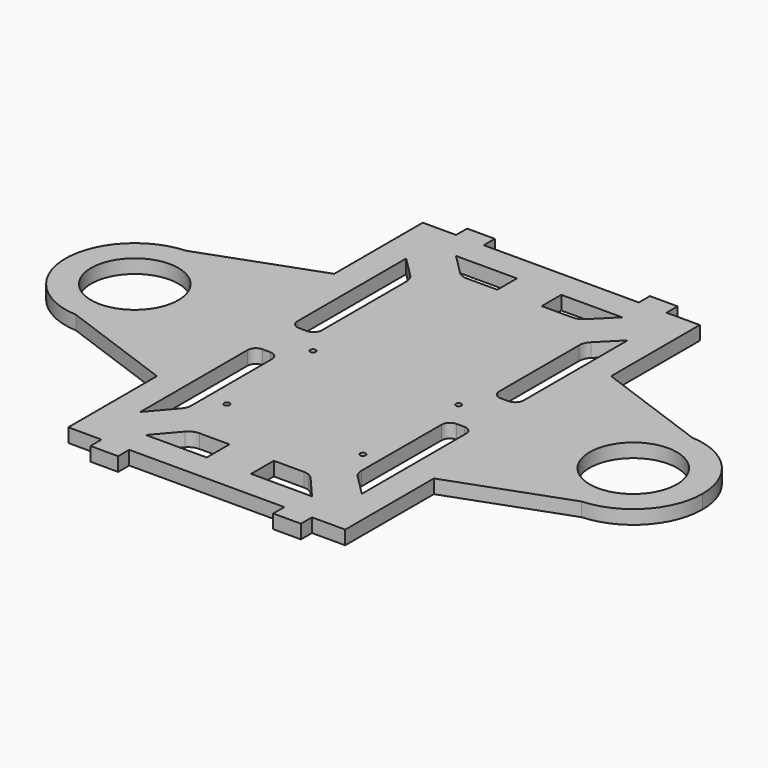
from build123d import *

# Parameters (mm, degrees)
F0_W     = 12.7
F0_H     = 6.35
F0_R     = 20
F1_DEPTH = 6.35
F3_DEPTH = 25.4
F4_R     = 1.27
F5_DEPTH = 25.4


with BuildPart() as f1:
    # F0 (on Top) → F1 (new body)
    with BuildSketch(Plane.XY):
        Polygon((-48.26, 101.6), (-63.5, 101.6), (-63.5, 50.8), (-63.5, -50.8), (-63.5, -101.6), (-48.26, -101.6), (-35.56, -101.6), (35.56, -101.6), (48.26, -101.6), (63.5, -101.6), (63.5, -50.8), (63.5, 50.8), (63.5, 101.6), (48.26, 101.6), (35.56, 101.6), (-35.56, 101.6), align=None)
        with Locations((-41.91, 104.775)):
            Rectangle(F0_W, F0_H)
        with BuildLine():
            Line((-63.5, -50.8), (-63.5, 50.8))
            Line((-63.5, 50.8), (-115.958545, 31.706651))
            ThreePointArc((-115.958545, 31.706651), (-92.443608, 23.02956), (-82.55, 0))
            ThreePointArc((-82.55, 0), (-92.443608, -23.02956), (-115.958545, -31.706651))
            Line((-115.958545, -31.706651), (-63.5, -50.8))
        make_face()
        with BuildLine():
            ThreePointArc((-82.55, 0), (-92.443608, 23.02956), (-115.958545, 31.706651))
            ThreePointArc((-115.958545, 31.706651), (-146.05, 0), (-115.958545, -31.706651))
            ThreePointArc((-115.958545, -31.706651), (-92.443608, -23.02956), (-82.55, 0))
        make_face()
        with Locations((-114.3, 0)):
            Circle(F0_R, mode=Mode.SUBTRACT)
        with Locations((41.91, 104.775)):
            Rectangle(F0_W, F0_H)
        with Locations((-41.91, -104.775)):
            Rectangle(F0_W, F0_H)
        with BuildLine():
            Line((115.958545, 31.706651), (63.5, 50.8))
            Line((63.5, 50.8), (63.5, -50.8))
            Line((63.5, -50.8), (115.958545, -31.706651))
            ThreePointArc((115.958545, -31.706651), (82.55, 0), (115.958545, 31.706651))
        make_face()
        with Locations((41.91, -104.775)):
            Rectangle(F0_W, F0_H)
        with BuildLine():
            ThreePointArc((146.05, 0), (137.32956, 21.856392), (115.958545, 31.706651))
            ThreePointArc((115.958545, 31.706651), (82.55, 0), (115.958545, -31.706651))
            ThreePointArc((115.958545, -31.706651), (137.32956, -21.856392), (146.05, 0))
        make_face()
        with Locations((114.3, 0)):
            Circle(F0_R, mode=Mode.SUBTRACT)
    extrude(amount=F1_DEPTH)

    # F2 (on face) → F3 (cut)
    with BuildSketch(Plane.XY.offset(6.35)):
        with BuildLine():
            ThreePointArc((-28.743891, 79.535165), (-26.683078, 78.157131), (-24.251671, 77.6732))
            Line((-24.251671, 77.6732), (-10.16, 77.6732))
            Line((-10.16, 77.6732), (-10.16, 88.9))
            Line((-10.16, 88.9), (-38.1, 88.9))
            Line((-38.1, 88.9), (-28.743891, 79.535165))
        make_face()
        with BuildLine():
            Line((-10.16, -75.875254), (-23.971951, -75.875254))
            ThreePointArc((-23.971951, -75.875254), (-26.61868, -76.453137), (-28.783676, -78.081608))
            Line((-28.783676, -78.081608), (-38.1, -88.9))
            Line((-38.1, -88.9), (-10.16, -88.9))
            Line((-10.16, -88.9), (-10.16, -75.875254))
        make_face()
        with BuildLine():
            Line((23.98423, -75.875254), (10.16, -75.875254))
            Line((10.16, -75.875254), (10.16, -88.9))
            Line((10.16, -88.9), (38.1, -88.9))
            Line((38.1, -88.9), (28.798656, -78.084747))
            ThreePointArc((28.798656, -78.084747), (26.632841, -76.454001), (23.98423, -75.875254))
        make_face()
        with BuildLine():
            Line((41.353395, -66.799067), (50.8, -76.2))
            Line((50.8, -76.2), (50.8, -16.477037))
            ThreePointArc((50.8, -16.477037), (49.684077, -13.78296), (46.99, -12.667037))
            Line((46.99, -12.667037), (43.399565, -12.667037))
            ThreePointArc((43.399565, -12.667037), (40.708633, -13.779818), (39.589575, -16.468145))
            Line((39.589575, -16.468145), (39.482647, -62.283251))
            ThreePointArc((39.482647, -62.283251), (39.966103, -64.728373), (41.353395, -66.799067))
        make_face()
        with BuildLine():
            Line((-50.8, -14.712054), (-50.8, -76.2))
            Line((-50.8, -76.2), (-41.121936, -64.961544))
            ThreePointArc((-41.121936, -64.961544), (-39.980638, -63.027881), (-39.583661, -60.817898))
            Line((-39.583661, -60.817898), (-39.583661, -14.712054))
            ThreePointArc((-39.583661, -14.712054), (-40.699584, -12.017977), (-43.393661, -10.902054))
            Line((-43.393661, -10.902054), (-46.99, -10.902054))
            ThreePointArc((-46.99, -10.902054), (-49.684077, -12.017977), (-50.8, -14.712054))
        make_face()
        with BuildLine():
            Line((50.8, 16.51), (50.8, 76.2))
            Line((50.8, 76.2), (41.453267, 66.832201))
            ThreePointArc((41.453267, 66.832201), (40.080445, 64.773868), (39.598446, 62.34713))
            Line((39.598446, 62.34713), (39.598446, 16.51))
            ThreePointArc((39.598446, 16.51), (40.714369, 13.815923), (43.408446, 12.7))
            Line((43.408446, 12.7), (46.99, 12.7))
            ThreePointArc((46.99, 12.7), (49.684077, 13.815923), (50.8, 16.51))
        make_face()
        with BuildLine():
            Line((10.16, 88.9), (10.16, 77.6732))
            Line((10.16, 77.6732), (24.251671, 77.6732))
            ThreePointArc((24.251671, 77.6732), (26.683078, 78.157131), (28.743891, 79.535165))
            Line((28.743891, 79.535165), (38.1, 88.9))
            Line((38.1, 88.9), (10.16, 88.9))
        make_face()
        with BuildLine():
            Line((-41.44144, 66.832712), (-50.8, 76.2))
            Line((-50.8, 76.2), (-50.8, 13.881477))
            ThreePointArc((-50.8, 13.881477), (-49.684077, 11.187401), (-46.99, 10.071477))
            Line((-46.99, 10.071477), (-43.393661, 10.071477))
            ThreePointArc((-43.393661, 10.071477), (-40.699584, 11.187401), (-39.583661, 13.881477))
            Line((-39.583661, 13.881477), (-39.583661, 62.344677))
            ThreePointArc((-39.583661, 62.344677), (-40.066459, 64.77335), (-41.44144, 66.832712))
        make_face()
    extrude(amount=-F3_DEPTH, mode=Mode.SUBTRACT)

    # F4 (on face) → F5 (cut)
    with BuildSketch(Plane.XY.offset(6.35)):
        with BuildLine():
            ThreePointArc((30.687634, -52.062728), (31.957634, -53.332728), (33.227634, -52.062728))
            ThreePointArc((33.227634, -52.062728), (31.957634, -50.792728), (30.687634, -52.062728))
        make_face()
        with Locations((-30.42054, -52.062728)):
            Circle(F4_R)
        with BuildLine():
            ThreePointArc((-30.849525, -0.579722), (-32.119525, 0.690278), (-33.389525, -0.579722))
            Line((-33.389525, -0.579722), (-30.849525, -0.579722))
        make_face()
        with BuildLine():
            ThreePointArc((35.97056, -0.579722), (34.70056, 0.690278), (33.43056, -0.579722))
            Line((33.43056, -0.579722), (35.97056, -0.579722))
        make_face()
        with BuildLine():
            Line((35.97056, -0.579722), (33.43056, -0.579722))
            ThreePointArc((33.43056, -0.579722), (34.70056, -1.849722), (35.97056, -0.579722))
        make_face()
        with BuildLine():
            Line((-30.849525, -0.579722), (-33.389525, -0.579722))
            ThreePointArc((-33.389525, -0.579722), (-32.119525, -1.849722), (-30.849525, -0.579722))
        make_face()
    extrude(amount=-F5_DEPTH, mode=Mode.SUBTRACT)


solid = f1.part
